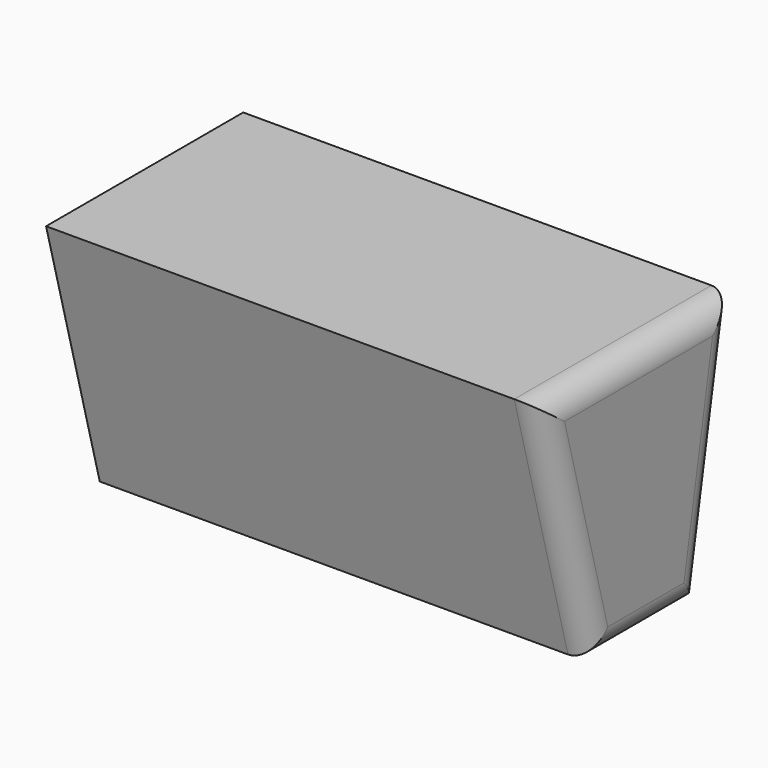
from build123d import *

# Parameters (mm, degrees)
F1_DEPTH = 101.6
F2_R     = 5.08


with BuildPart() as f1:
    # F0 (on Right) → F1 (new body)
    with BuildSketch(Plane.YZ):
        Polygon((27.6941948846, 46.3221500594), (-23.1058051154, 46.3221500594), (-9.271863848, -5.6394003332), (18.5437425971, -5.6394003332), align=None)
    extrude(amount=F1_DEPTH)

    # F2
    f2_edges = [f1.edges().sort_by_distance(p)[0] for p in [
        (101.6, -16.188834, 20.341375),
        (101.6, 4.635939, -5.6394),
        (101.6, 23.118969, 20.341375),
        (101.6, 2.294195, 46.32215),
    ]]
    fillet(f2_edges, radius=F2_R)


solid = f1.part
